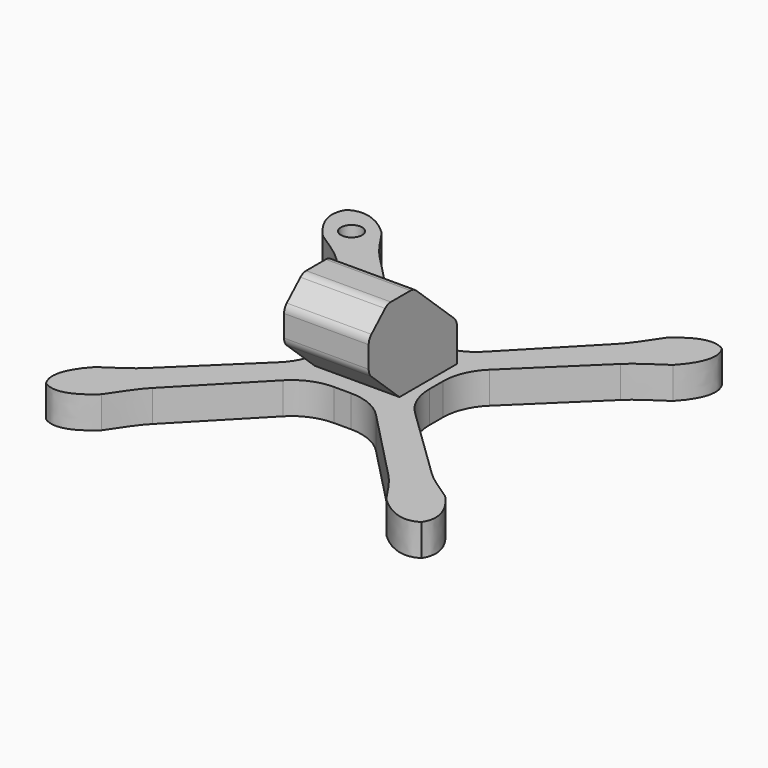
from build123d import *

# Parameters (mm, degrees)
F0_R          = 1
F1_DEPTH      = 3
F3_DEPTH      = 4
F3_DEPTH_BACK = 4
F4_R          = 5


with BuildPart() as f1:
    # F0 (on Top) → F1 (new body)
    with BuildSketch(Plane.XY):
        with BuildLine():
            ThreePointArc((-4.924908, -2.924908), (-4.339122, -4.339122), (-2.924908, -4.924908))
            Line((-2.924908, -4.924908), (2.924908, -4.924908))
            ThreePointArc((2.924908, -4.924908), (4.339122, -4.339122), (4.924908, -2.924908))
            Line((4.924908, -2.924908), (4.924908, 2.924908))
            ThreePointArc((4.924908, 2.924908), (4.339122, 4.339122), (2.924908, 4.924908))
            Line((2.924908, 4.924908), (-2.924908, 4.924908))
            ThreePointArc((-2.924908, 4.924908), (-4.339122, 4.339122), (-4.924908, 2.924908))
            Line((-4.924908, 2.924908), (-4.924908, -2.924908))
        make_face()
        with BuildLine():
            Line((-11.150462, -13.421226), (-2.924908, -4.924908))
            ThreePointArc((-2.924908, -4.924908), (-4.339122, -4.339122), (-4.924908, -2.924908))
            Line((-4.924908, -2.924908), (-13.421226, -11.150462))
            add(Edge.make_bspline(
                [(-16.544489, -13.448271), (-15.335972, -12.597233), (-14.270634, -12.001318), (-13.421226, -11.150462)],
                knots=[0, 0, 0, 0, 3.87746, 3.87746, 3.87746, 3.87746], degree=3))
            add(Edge.make_bspline(
                [(-16.544489, -13.448271), (-17.632553, -14.607294), (-18.696965, -16.286609), (-17.743413, -17.743413)],
                knots=[0, 0, 0, 0, 4.459169, 4.459169, 4.459169, 4.459169], degree=3))
            add(Edge.make_bspline(
                [(-13.448271, -16.544489), (-14.607294, -17.632553), (-16.286609, -18.696965), (-17.743413, -17.743413)],
                knots=[0, 0, 0, 0, 4.459169, 4.459169, 4.459169, 4.459169], degree=3))
            add(Edge.make_bspline(
                [(-13.448271, -16.544489), (-12.597233, -15.335972), (-12.001318, -14.270634), (-11.150462, -13.421226)],
                knots=[0, 0, 0, 0, 3.87746, 3.87746, 3.87746, 3.87746], degree=3))
        make_face()
        with BuildLine():
            ThreePointArc((4.924908, -2.924908), (4.339122, -4.339122), (2.924908, -4.924908))
            Line((2.924908, -4.924908), (11.150462, -13.421226))
            add(Edge.make_bspline(
                [(13.448271, -16.544489), (12.597233, -15.335972), (12.001318, -14.270634), (11.150462, -13.421226)],
                knots=[0, 0, 0, 0, 3.87746, 3.87746, 3.87746, 3.87746], degree=3))
            add(Edge.make_bspline(
                [(13.448271, -16.544489), (14.607294, -17.632553), (16.286609, -18.696965), (17.743413, -17.743413)],
                knots=[0, 0, 0, 0, 4.459169, 4.459169, 4.459169, 4.459169], degree=3))
            add(Edge.make_bspline(
                [(16.544489, -13.448271), (17.632553, -14.607294), (18.696965, -16.286609), (17.743413, -17.743413)],
                knots=[0, 0, 0, 0, 4.459169, 4.459169, 4.459169, 4.459169], degree=3))
            add(Edge.make_bspline(
                [(16.544489, -13.448271), (15.335972, -12.597233), (14.270634, -12.001318), (13.421226, -11.150462)],
                knots=[0, 0, 0, 0, 3.87746, 3.87746, 3.87746, 3.87746], degree=3))
            Line((13.421226, -11.150462), (4.924908, -2.924908))
        make_face()
        with BuildLine():
            Line((-13.421226, 11.150462), (-4.924908, 2.924908))
            ThreePointArc((-4.924908, 2.924908), (-4.339122, 4.339122), (-2.924908, 4.924908))
            Line((-2.924908, 4.924908), (-11.150462, 13.421226))
            add(Edge.make_bspline(
                [(-13.448271, 16.544489), (-12.597233, 15.335972), (-12.001318, 14.270634), (-11.150462, 13.421226)],
                knots=[0, 0, 0, 0, 3.87746, 3.87746, 3.87746, 3.87746], degree=3))
            add(Edge.make_bspline(
                [(-13.448271, 16.544489), (-14.607294, 17.632553), (-16.286609, 18.696965), (-17.743413, 17.743413)],
                knots=[0, 0, 0, 0, 4.459169, 4.459169, 4.459169, 4.459169], degree=3))
            add(Edge.make_bspline(
                [(-16.544489, 13.448271), (-17.632553, 14.607294), (-18.696965, 16.286609), (-17.743413, 17.743413)],
                knots=[0, 0, 0, 0, 4.459169, 4.459169, 4.459169, 4.459169], degree=3))
            add(Edge.make_bspline(
                [(-16.544489, 13.448271), (-15.335972, 12.597233), (-14.270634, 12.001318), (-13.421226, 11.150462)],
                knots=[0, 0, 0, 0, 3.87746, 3.87746, 3.87746, 3.87746], degree=3))
        make_face()
        with Locations((-15.324265, 15.324265)):
            Circle(F0_R, mode=Mode.SUBTRACT)
        with BuildLine():
            ThreePointArc((2.924908, 4.924908), (4.339122, 4.339122), (4.924908, 2.924908))
            Line((4.924908, 2.924908), (13.421226, 11.150462))
            add(Edge.make_bspline(
                [(16.544489, 13.448271), (15.335972, 12.597233), (14.270634, 12.001318), (13.421226, 11.150462)],
                knots=[0, 0, 0, 0, 3.87746, 3.87746, 3.87746, 3.87746], degree=3))
            add(Edge.make_bspline(
                [(16.544489, 13.448271), (17.632553, 14.607294), (18.696965, 16.286609), (17.743413, 17.743413)],
                knots=[0, 0, 0, 0, 4.459169, 4.459169, 4.459169, 4.459169], degree=3))
            add(Edge.make_bspline(
                [(13.448271, 16.544489), (14.607294, 17.632553), (16.286609, 18.696965), (17.743413, 17.743413)],
                knots=[0, 0, 0, 0, 4.459169, 4.459169, 4.459169, 4.459169], degree=3))
            add(Edge.make_bspline(
                [(13.448271, 16.544489), (12.597233, 15.335972), (12.001318, 14.270634), (11.150462, 13.421226)],
                knots=[0, 0, 0, 0, 3.87746, 3.87746, 3.87746, 3.87746], degree=3))
            Line((11.150462, 13.421226), (2.924908, 4.924908))
        make_face()
    extrude(amount=F1_DEPTH)

    # F2 (on Right) → F3 (join, two sides)
    with BuildSketch(Plane.YZ) as f3_sk:
        with BuildLine():
            Line((-6.486704, 6.056156), (-3.156722, 2.984606))
            Line((-3.156722, 2.984606), (3.611223, 2.984606))
            Line((3.611223, 2.984606), (3.611223, 6.190739))
            ThreePointArc((3.611223, 6.190739), (3.527195, 6.591982), (3.289231, 6.925793))
            Line((3.289231, 6.925793), (-1.19991, 11.066544))
            ThreePointArc((-1.19991, 11.066544), (-1.51395, 11.262901), (-1.877918, 11.331489))
            Line((-1.877918, 11.331489), (-4.193702, 11.331489))
            ThreePointArc((-4.193702, 11.331489), (-4.558258, 11.262671), (-4.872638, 11.065687))
            Line((-4.872638, 11.065687), (-6.487631, 9.572253))
            ThreePointArc((-6.487631, 9.572253), (-6.72492, 9.23872), (-6.808695, 8.838055))
            Line((-6.808695, 8.838055), (-6.808695, 6.79121))
            ThreePointArc((-6.808695, 6.79121), (-6.724667, 6.389967), (-6.486704, 6.056156))
        make_face()
    extrude(amount=F3_DEPTH)
    extrude(f3_sk.sketch, amount=-F3_DEPTH_BACK)

    # F4
    f4_edges = [f1.edges().sort_by_distance(p)[0] for p in [
        (4.924908, -2.924908, 1.5),
        (4.924908, 2.924908, 1.5),
        (2.924908, 4.924908, 1.5),
        (-2.924908, 4.924908, 1.5),
        (-4.924908, 2.924908, 1.5),
        (-4.924908, -2.924908, 1.5),
        (-2.924908, -4.924908, 1.5),
        (2.924908, -4.924908, 1.5),
    ]]
    fillet(f4_edges, radius=F4_R)


solid = f1.part
